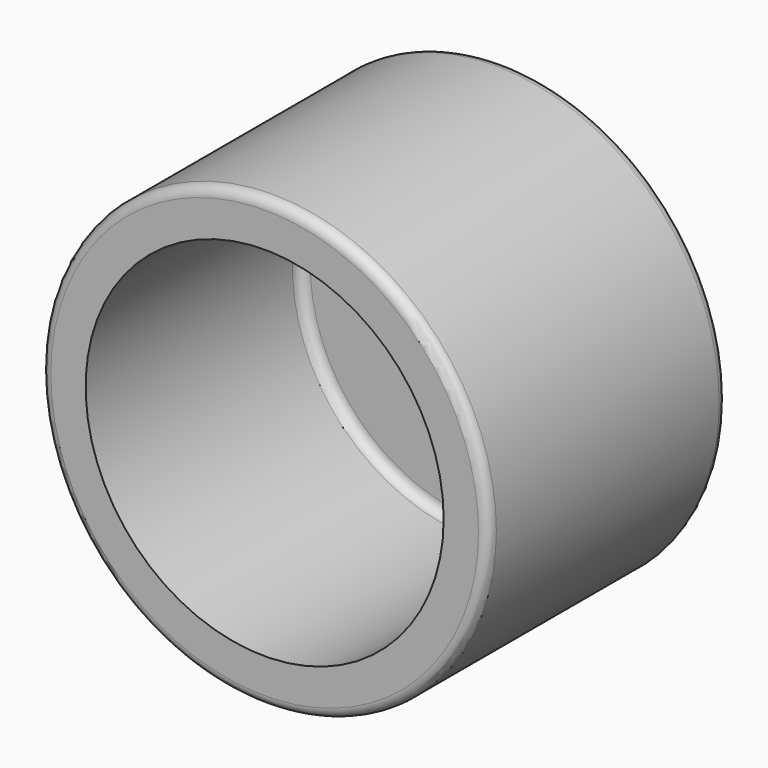
from build123d import *

# Parameters (mm, degrees)
F0_R     = 22.5
F0_R_2   = 18
F1_DEPTH = 3
F2_DEPTH = 30
F3_R     = 1
F4_R     = 2.5
F5_DEPTH = 25
F6_R     = 1


with BuildPart() as f1:
    # F0 (on Front) → F1 (new body)
    with BuildSketch(Plane.XZ):
        Circle(F0_R)
        Circle(F0_R_2, mode=Mode.SUBTRACT)
        Circle(F0_R_2)
    extrude(amount=F1_DEPTH)

    # F0 (on Front) → F2 (join)
    with BuildSketch(Plane.XZ):
        Circle(F0_R)
        Circle(F0_R_2, mode=Mode.SUBTRACT)
    extrude(amount=F2_DEPTH)

    # F3
    f3_edges = [f1.edges().sort_by_distance(p)[0] for p in [
        (-18, -3, 0),
        (-22.5, -30, 0),
        (-22.5, 0, 0),
    ]]
    fillet(f3_edges, radius=F3_R)

    # F4 (on face) → F5 (cut)
    with BuildSketch(Plane(origin=(0, 0, 0), x_dir=(-1, 0, 0), z_dir=(0, 1, 0))):
        Circle(F4_R)
        Circle(F4_R)
    extrude(amount=-F5_DEPTH, mode=Mode.SUBTRACT)

    # F6
    f6_edges = [f1.edges().sort_by_distance(p)[0] for p in [
        (2.5, -3, 0),
        (2.5, 0, 0),
    ]]
    fillet(f6_edges, radius=F6_R)


solid = f1.part
